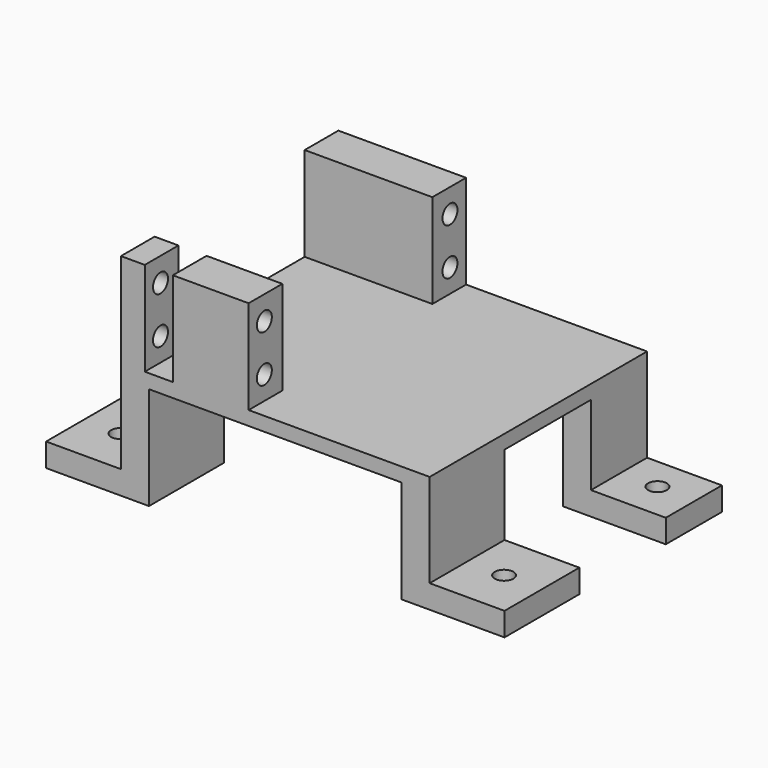
from build123d import *

# Parameters (mm, degrees)
CYLINDER324_R     = 2
CYLINDER324_DEPTH = 47
CYLINDER323_R     = 2
CYLINDER323_DEPTH = 47
BOX411_W          = 6
BOX411_H          = 15
BOX411_DEPTH      = 25
BOX409_W          = 6
BOX409_H          = 15
BOX409_DEPTH      = 25
BOX410_W          = 16
BOX410_H          = 15
BOX410_DEPTH      = 5
BOX412_W          = 16
BOX412_H          = 15
BOX412_DEPTH      = 5
BOX430_W          = 6
BOX430_H          = 9
BOX430_DEPTH      = 20.1
CYLINDER180_R     = 2
CYLINDER180_DEPTH = 33
CYLINDER179_R     = 2
CYLINDER179_DEPTH = 30
CYLINDER182_R     = 2
CYLINDER182_DEPTH = 33
CYLINDER181_R     = 2
CYLINDER181_DEPTH = 30
BOX281_W          = 27.3
BOX281_H          = 9
BOX281_DEPTH      = 20.1
BOX408_W          = 27.3
BOX408_H          = 9
BOX408_DEPTH      = 20.1
BOX283_W          = 66
BOX283_H          = 58.1
BOX283_DEPTH      = 3
CYLINDER326_R     = 2
CYLINDER326_DEPTH = 47
CYLINDER325_R     = 2
CYLINDER325_DEPTH = 47
BOX286_W          = 6
BOX286_H          = 20
BOX286_DEPTH      = 25
BOX407_W          = 16
BOX407_H          = 20
BOX407_DEPTH      = 5
BOX288_W          = 6
BOX288_H          = 20
BOX288_DEPTH      = 25
BOX406_W          = 16
BOX406_H          = 20
BOX406_DEPTH      = 5


with BuildPart() as cylinder324:
    # Cylinder324 → Cylinder324 (new body)
    with BuildSketch(Plane(origin=(-75, -98, -5), x_dir=(1, 0, 0), z_dir=(0, 0, 1))):
        Circle(CYLINDER324_R)
    extrude(amount=CYLINDER324_DEPTH)


with BuildPart() as fusion314:
    # Cylinder323 → Cylinder323 (new body)
    with BuildSketch(Plane(origin=(7, -98, -5), x_dir=(1, 0, 0), z_dir=(0, 0, 1))):
        Circle(CYLINDER323_R)
    extrude(amount=CYLINDER323_DEPTH)

    # Fusion314: union Cylinder324
    add(cylinder324.part)


with BuildPart() as fusion314_1:
    # Fusion314 placement: moved
    add(fusion314.part.moved(Location((0, 41, 0))))


with BuildPart() as box411:
    # Box411 → Box411 (new body)
    with BuildSketch(Plane(origin=(-6.9, -64.9, 37), x_dir=(1, 0, 0), z_dir=(0, 0, 1))):
        with Locations((3, 7.5)):
            Rectangle(BOX411_W, BOX411_H)
    extrude(amount=BOX411_DEPTH)


with BuildPart() as box409:
    # Box409 → Box409 (new body)
    with BuildSketch(Plane(origin=(-66.9, -64.9, 37), x_dir=(1, 0, 0), z_dir=(0, 0, 1))):
        with Locations((3, 7.5)):
            Rectangle(BOX409_W, BOX409_H)
    extrude(amount=BOX409_DEPTH)


with BuildPart() as box410:
    # Box410 → Box410 (new body)
    with BuildSketch(Plane(origin=(-82.9, -64.9, 37), x_dir=(1, 0, 0), z_dir=(0, 0, 1))):
        with Locations((8, 7.5)):
            Rectangle(BOX410_W, BOX410_H)
    extrude(amount=BOX410_DEPTH)


with BuildPart() as cut338:
    # Box412 → Box412 (new body)
    with BuildSketch(Plane(origin=(-0.9, -64.9, 37), x_dir=(1, 0, 0), z_dir=(0, 0, 1))):
        with Locations((8, 7.5)):
            Rectangle(BOX412_W, BOX412_H)
    extrude(amount=BOX412_DEPTH)

    # Fusion322: union Box411, Box409, Box410
    add(box411.part)
    add(box409.part)
    add(box410.part)

    # Cut338: cut Fusion314
    add(fusion314_1.part, mode=Mode.SUBTRACT)


with BuildPart() as box430:
    # Box430 → Box430 (new body)
    with BuildSketch(Plane(origin=(-66.5, -108, 62), x_dir=(1, 0, 0), z_dir=(0, 0, 1))):
        with Locations((3, 4.5)):
            Rectangle(BOX430_W, BOX430_H)
    extrude(amount=BOX430_DEPTH)


with BuildPart() as cylinder180:
    # Cylinder180 → Cylinder180 (new body)
    with BuildSketch(Plane(origin=(-74.6, -105.8, 63), x_dir=(0, 0, -1), z_dir=(1, 0, 0))):
        Circle(CYLINDER180_R)
    extrude(amount=CYLINDER180_DEPTH)


with BuildPart() as fusion247:
    # Cylinder179 → Cylinder179 (new body)
    with BuildSketch(Plane(origin=(-71.6, -105.8, 73), x_dir=(0, 0, -1), z_dir=(1, 0, 0))):
        Circle(CYLINDER179_R)
    extrude(amount=CYLINDER179_DEPTH)

    # Fusion247: union Cylinder180
    add(cylinder180.part)


with BuildPart() as fusion247_1:
    # Fusion247 placement: moved
    add(fusion247.part.moved(Location((0, 2, 4))))


with BuildPart() as cylinder182:
    # Cylinder182 → Cylinder182 (new body)
    with BuildSketch(Plane(origin=(-74.6, -56.2, 63), x_dir=(0, 0, -1), z_dir=(1, 0, 0))):
        Circle(CYLINDER182_R)
    extrude(amount=CYLINDER182_DEPTH)


with BuildPart() as fusion252:
    # Cylinder181 → Cylinder181 (new body)
    with BuildSketch(Plane(origin=(-71.6, -56.2, 73), x_dir=(0, 0, -1), z_dir=(1, 0, 0))):
        Circle(CYLINDER181_R)
    extrude(amount=CYLINDER181_DEPTH)

    # Fusion246: union Cylinder182
    add(cylinder182.part)


with BuildPart() as fusion252_1:
    # Fusion246 placement: moved
    add(fusion252.part.moved(Location((0, 2, 4))))

    # Fusion252: union Fusion247
    add(fusion247_1.part)


with BuildPart() as box281:
    # Box281 → Box281 (new body)
    with BuildSketch(Plane(origin=(-71.6, -108, 62), x_dir=(1, 0, 0), z_dir=(0, 0, 1))):
        with Locations((13.65, 4.5)):
            Rectangle(BOX281_W, BOX281_H)
    extrude(amount=BOX281_DEPTH)


with BuildPart() as box408:
    # Box408 → Box408 (new body)
    with BuildSketch(Plane(origin=(-71.6, -58.9, 62), x_dir=(1, 0, 0), z_dir=(0, 0, 1))):
        with Locations((13.65, 4.5)):
            Rectangle(BOX408_W, BOX408_H)
    extrude(amount=BOX408_DEPTH)


with BuildPart() as cut336:
    # Box283 → Box283 (new body)
    with BuildSketch(Plane(origin=(-71.6, -108, 59), x_dir=(1, 0, 0), z_dir=(0, 0, 1))):
        with Locations((33, 29.05)):
            Rectangle(BOX283_W, BOX283_H)
    extrude(amount=BOX283_DEPTH)

    # Fusion251: union Box281, Box408
    add(box281.part)
    add(box408.part)

    # Cut283: cut Fusion252
    add(fusion252_1.part, mode=Mode.SUBTRACT)

    # Cut336: cut Box430
    add(box430.part, mode=Mode.SUBTRACT)


with BuildPart() as cut336_1:
    # Cut336 placement: moved
    add(cut336.part.moved(Location((4.7, 0, 0))))


with BuildPart() as cylinder326:
    # Cylinder326 → Cylinder326 (new body)
    with BuildSketch(Plane(origin=(-75, -98, -5), x_dir=(1, 0, 0), z_dir=(0, 0, 1))):
        Circle(CYLINDER326_R)
    extrude(amount=CYLINDER326_DEPTH)


with BuildPart() as fusion315:
    # Cylinder325 → Cylinder325 (new body)
    with BuildSketch(Plane(origin=(7, -98, -5), x_dir=(1, 0, 0), z_dir=(0, 0, 1))):
        Circle(CYLINDER325_R)
    extrude(amount=CYLINDER325_DEPTH)

    # Fusion315: union Cylinder326
    add(cylinder326.part)


with BuildPart() as box286:
    # Box286 → Box286 (new body)
    with BuildSketch(Plane(origin=(-66.9, -108, 37), x_dir=(1, 0, 0), z_dir=(0, 0, 1))):
        with Locations((3, 10)):
            Rectangle(BOX286_W, BOX286_H)
    extrude(amount=BOX286_DEPTH)


with BuildPart() as box407:
    # Box407 → Box407 (new body)
    with BuildSketch(Plane(origin=(-0.9, -108, 37), x_dir=(1, 0, 0), z_dir=(0, 0, 1))):
        with Locations((8, 10)):
            Rectangle(BOX407_W, BOX407_H)
    extrude(amount=BOX407_DEPTH)


with BuildPart() as box288:
    # Box288 → Box288 (new body)
    with BuildSketch(Plane(origin=(-6.9, -108, 37), x_dir=(1, 0, 0), z_dir=(0, 0, 1))):
        with Locations((3, 10)):
            Rectangle(BOX288_W, BOX288_H)
    extrude(amount=BOX288_DEPTH)


with BuildPart() as obj1:
    # Box406 → Box406 (new body)
    with BuildSketch(Plane(origin=(-82.9, -108, 37), x_dir=(1, 0, 0), z_dir=(0, 0, 1))):
        with Locations((8, 10)):
            Rectangle(BOX406_W, BOX406_H)
    extrude(amount=BOX406_DEPTH)

    # Fusion249: union Box286, Box407, Box288
    add(box286.part)
    add(box407.part)
    add(box288.part)

    # Cut337: cut Fusion315
    add(fusion315.part, mode=Mode.SUBTRACT)

    # Fusion324: union Cut338, Cut336
    add(cut338.part)
    add(cut336_1.part)


solid = obj1.part
